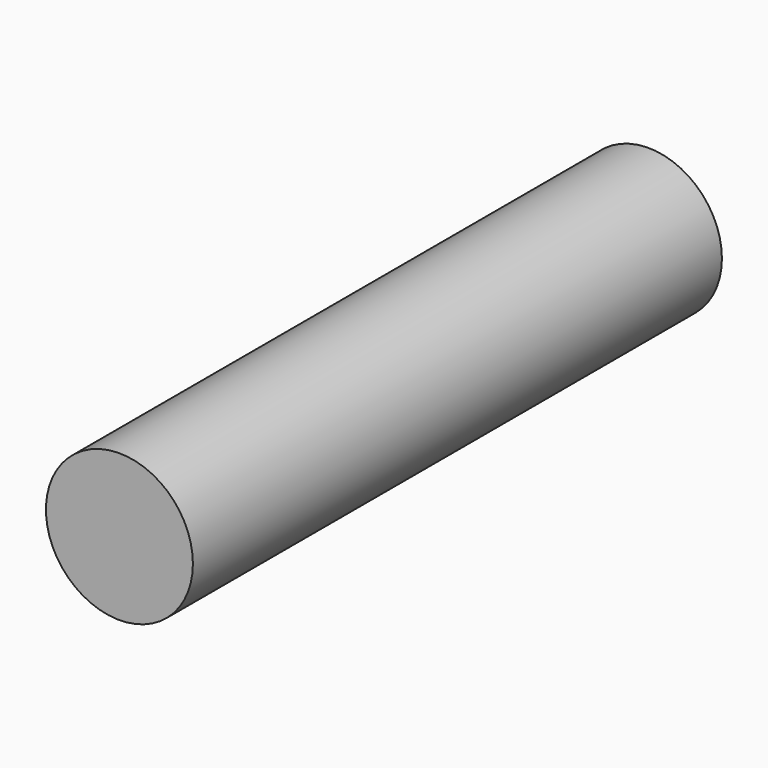
from build123d import *

# Parameters (mm, degrees)
F0_R     = 2
F1_DEPTH = 63
F2_DEPTH = 50
F3_DEPTH = 15
F4_DEPTH = 10
F5_DEPTH = 1
F6_DEPTH = 1
F7_DEPTH = 5
F8_DEPTH = 3


with BuildPart() as f1:
    # F0 (on Front) → F1 (new body)
    with BuildSketch(Plane.XZ):
        with Locations((-47.7000027895, 27.4500008672)):
            Circle(F0_R)
    extrude(amount=F1_DEPTH)

    # F2 (cut): a face of the model
    f2_faces = [f1.faces().sort_by_distance(p)[0] for p in [
        (-47.7000027895, -63, 27.4500008672),
    ]]
    extrude(f2_faces, amount=-F2_DEPTH, mode=Mode.SUBTRACT)

    # F3 (add): a face of the model
    f3_faces = [f1.faces().sort_by_distance(p)[0] for p in [
        (-47.7000027895, -13, 27.4500008672),
    ]]
    extrude(f3_faces, amount=F3_DEPTH)

    # F4 (cut): a face of the model
    f4_faces = [f1.faces().sort_by_distance(p)[0] for p in [
        (-47.7000027895, -28, 27.4500008672),
    ]]
    extrude(f4_faces, amount=-F4_DEPTH, mode=Mode.SUBTRACT)

    # F5 (cut): a face of the model
    f5_faces = [f1.faces().sort_by_distance(p)[0] for p in [
        (-47.7000027895, -18, 27.4500008672),
    ]]
    extrude(f5_faces, amount=-F5_DEPTH, mode=Mode.SUBTRACT)

    # F6 (cut): a face of the model
    f6_faces = [f1.faces().sort_by_distance(p)[0] for p in [
        (-47.7000027895, -17, 27.4500008672),
    ]]
    extrude(f6_faces, amount=-F6_DEPTH, mode=Mode.SUBTRACT)

    # F7 (add): a face of the model
    f7_faces = [f1.faces().sort_by_distance(p)[0] for p in [
        (-47.7000027895, -16, 27.4500008672),
    ]]
    extrude(f7_faces, amount=F7_DEPTH)

    # F8 (cut): a face of the model
    f8_faces = [f1.faces().sort_by_distance(p)[0] for p in [
        (-47.7000027895, -21, 27.4500008672),
    ]]
    extrude(f8_faces, amount=-F8_DEPTH, mode=Mode.SUBTRACT)


solid = f1.part
